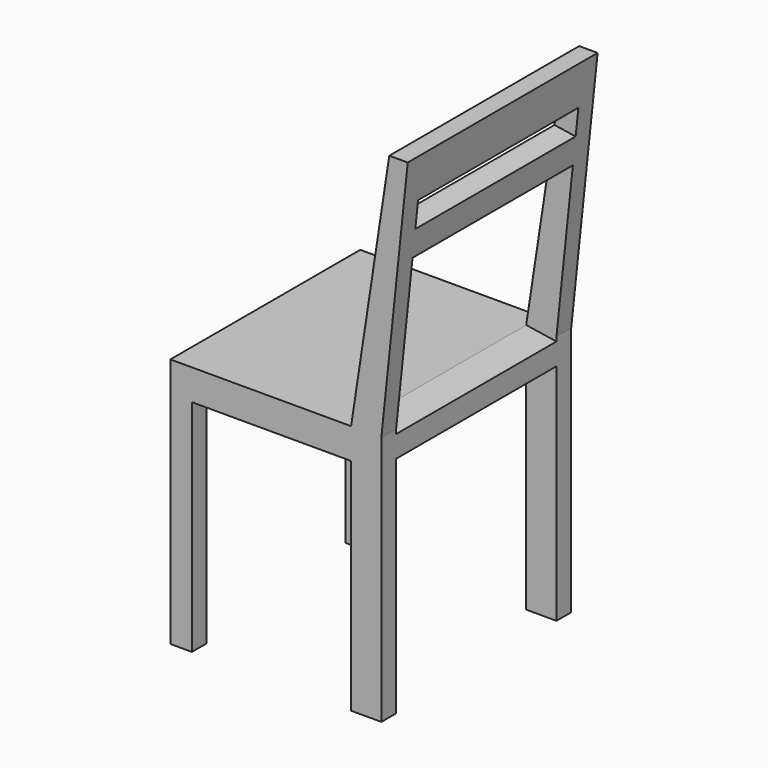
from build123d import *

# Parameters (mm, degrees)
F0_W     = 450
F0_H     = 450
F1_DEPTH = 950
F2_W     = 50
F2_H     = 58.0840170383
F2_H_2   = 416.9159829617
F2_W_2   = 301.8988892436
F3_DEPTH = 450.001
F4_W     = 380
F4_H     = 425
F5_DEPTH = 400.001
F6_W     = 380
F6_H     = 50
F6_H_2   = 305.4825048688
F7_DEPTH = 177.7040327035


with BuildPart() as f1:
    # F0 (on Top) → F1 (new body)
    with BuildSketch(Plane.XY):
        Rectangle(F0_W, F0_H)
    extrude(amount=F1_DEPTH)

    # F2 (on face) → F3 (cut, through all)
    with BuildSketch(Plane.XZ.offset(225)):
        with Locations((200, 445.9579914808)):
            Rectangle(F2_W, F2_H)
        Polygon((-225, 475), (117.622949183, 475), (190, 950), (-225, 950), align=None)
        Polygon((175, 475), (225, 475), (225, 950), align=None)
        with Locations((200, 208.4579914808)):
            Rectangle(F2_W, F2_H_2)
        with Locations((-33.3264954388, 208.4579914808)):
            Rectangle(F2_W_2, F2_H_2)
    extrude(amount=-F3_DEPTH, mode=Mode.SUBTRACT)

    # F4 (on face) → F5 (cut, through all)
    with BuildSketch(Plane.YZ.offset(175)):
        with Locations((0, 212.5)):
            Rectangle(F4_W, F4_H)
    extrude(amount=-F5_DEPTH, mode=Mode.SUBTRACT)

    # F6 (on face) → F7 (cut, through all)
    with BuildSketch(Plane(origin=(44.2192403008, 0, -6.7378067418), x_dir=(0, -1, 0), z_dir=(-0.9885895848, 0, 0.1506341024))):
        with Locations((0, 867.780585023)):
            Rectangle(F6_W, F6_H)
        with Locations((0, 640.0393325886)):
            Rectangle(F6_W, F6_H_2)
    extrude(amount=-F7_DEPTH, mode=Mode.SUBTRACT)


solid = f1.part
